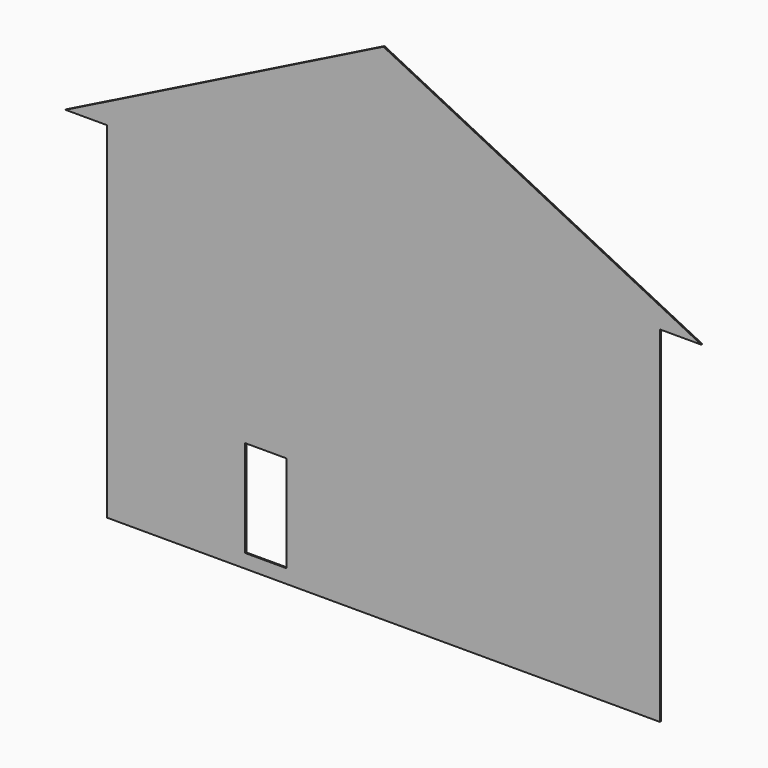
from build123d import *

# Parameters (mm, degrees)
F1_DEPTH = 30.48


with BuildPart() as f1:
    # F0 (on Front) → F1 (new body)
    with BuildSketch(Plane.XZ):
        Polygon((-12192, 0), (0, 0), (0, 304.8), (-8229.6, 304.8), (-9144, 304.8), (-12192, 304.8), align=None)
        Polygon((-13106.4, 7620), (-12192, 7620), (-6096, 10668), (-6096, 11125.2), align=None)
        Polygon((-6096, 10668), (0, 7620), (914.4, 7620), (-6096, 11125.2), align=None)
        Polygon((-6096, 10668), (-12192, 7620), (-6096, 7620), align=None)
        Polygon((-6096, 7620), (0, 7620), (-6096, 10668), align=None)
        Polygon((-8229.6, 304.8), (0, 304.8), (0, 7620), (-6096, 7620), (-12192, 7620), (-12192, 304.8), (-9144, 304.8), (-9144, 2438.4), (-8229.6, 2438.4), align=None)
    extrude(amount=F1_DEPTH)


solid = f1.part
